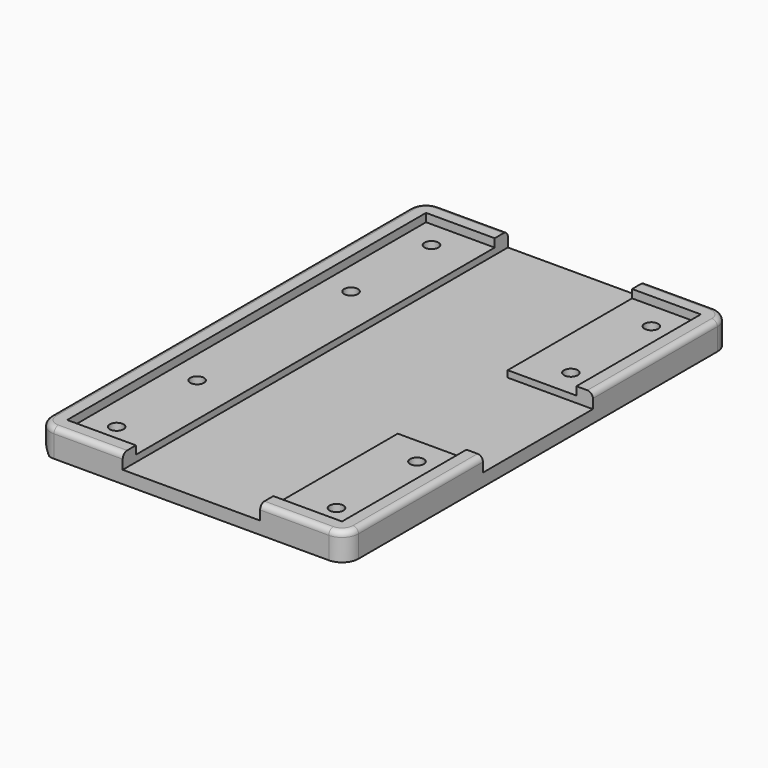
from build123d import *

# Parameters (mm, degrees)
F0_W      = 56
F0_H      = 87.6
F1_DEPTH  = 5
F2_SIZE   = 2
F3_W      = 15.5
F3_H      = 25
F4_DEPTH  = 2.7
F5_R      = 3
F7_W      = 50
F7_H      = 81.6
F8_DEPTH  = 1.5
F9_R      = 1
F10_D     = 2.5
F10_DEPTH = 68
F10_START = 1.5
F10_TIP   = 0.7510757738


with BuildPart() as f1:
    # F0 (on Top) → F1 (new body)
    with BuildSketch(Plane.XY):
        Rectangle(F0_W, F0_H)
    extrude(amount=F1_DEPTH)

    # F2
    f2_edges = [f1.edges().sort_by_distance(p)[0] for p in [
        (-28, 0, 0),
    ]]
    chamfer(f2_edges, length=F2_SIZE)

    # F3 (on face) → F4 (cut)
    with BuildSketch(Plane.XY.offset(5)):
        Polygon((12.5, 43.8), (-12.5, 43.8), (-12.5, -43.8), (12.5, -43.8), (12.5, -12.5), (12.5, 12.5), align=None)
        with Locations((20.25, 0)):
            Rectangle(F3_W, F3_H)
    extrude(amount=-F4_DEPTH, mode=Mode.SUBTRACT)

    # F5
    f5_edges = [f1.edges().sort_by_distance(p)[0] for p in [
        (-28, 43.8, 3.5),
        (-28, -43.8, 3.5),
        (28, -43.8, 2.5),
        (28, 43.8, 2.5),
    ]]
    fillet(f5_edges, radius=F5_R)

    # F7 (on offset) → F8 (cut)
    with BuildSketch(Plane.XY.offset(5)):
        Rectangle(F7_W, F7_H)
    extrude(amount=-F8_DEPTH, mode=Mode.SUBTRACT)

    # F9
    f9_edges = [f1.edges().sort_by_distance(p)[0] for p in [
        (-27.12132, 42.92132, 5),
        (27.12132, 42.92132, 5),
        (18.75, 43.8, 5),
        (-18.75, 43.8, 5),
        (-28, 0, 5),
        (-18.75, -43.8, 5),
        (27.12132, -42.92132, 5),
    ]]
    fillet(f9_edges, radius=F9_R)

    # F10
    # its depths count from where the whole tool has entered the part; down to there all is cleared
    with Locations(Plane.XY.offset(5).offset(-F10_START)):
        with Locations((-20, 35.8), (20, 35.8), (20, 17.5), (20, -17.5), (20, -35.8), (-20, -35.8), (-20, 17.5), (-20, -17.5)):
            Hole(F10_D / 2, depth=F10_DEPTH)
            with Locations((0, 0, -(F10_DEPTH + F10_TIP / 2))):  # 118° drill point
                Cone(0, F10_D / 2, F10_TIP, mode=Mode.SUBTRACT)


solid = f1.part
